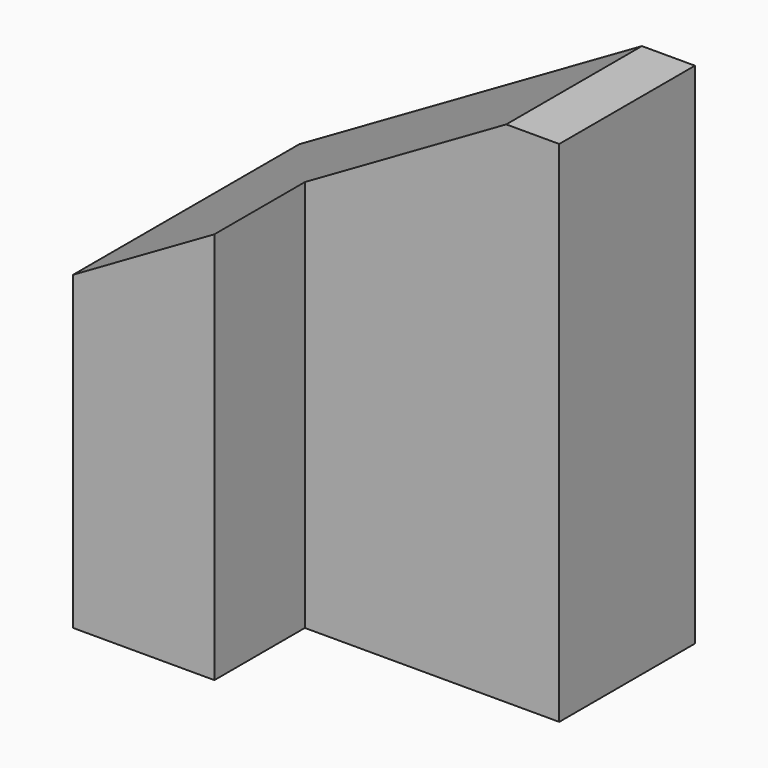
from build123d import *

# Parameters (mm, degrees)
F1_DEPTH = 36
F3_DEPTH = 20.001


with BuildPart() as f1:
    # F0 (on Top) → F1 (new body)
    with BuildSketch(Plane.XY):
        Polygon((0, 20), (0, 0), (10, 0), (10, 8), (28, 8), (28, 20), align=None)
    extrude(amount=F1_DEPTH)

    # F2 (on Front) → F3 (cut, through all)
    with BuildSketch(Plane.XZ):
        Polygon((24.248711, 36), (0, 36), (0, 22), align=None)
    extrude(amount=-F3_DEPTH, mode=Mode.SUBTRACT)


solid = f1.part
